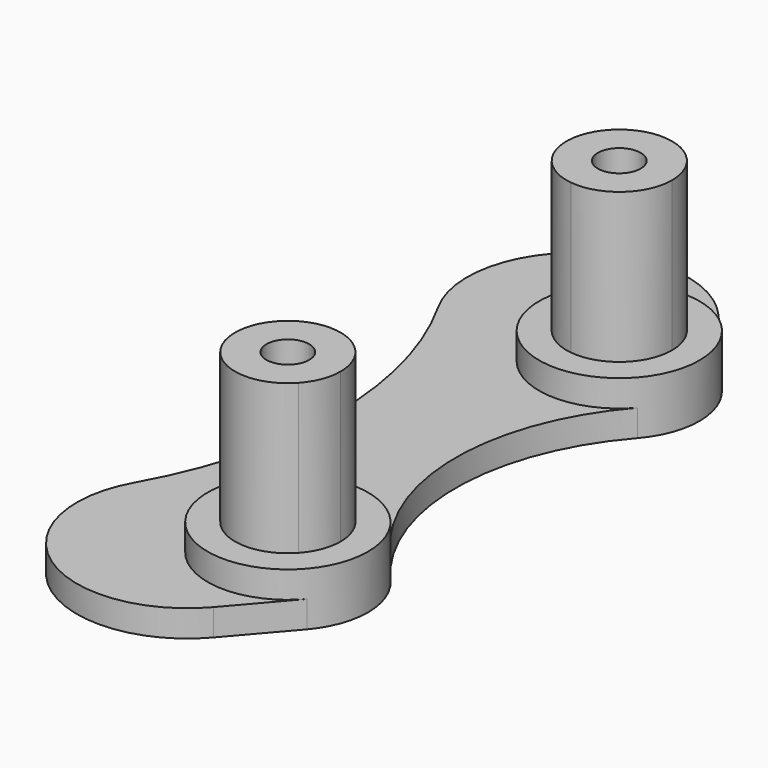
from build123d import *

# Parameters (mm, degrees)
F0_R     = 1.6
F1_DEPTH = 2
F2_DEPTH = 4
F3_DEPTH = 15.2
F4_DEPTH = 15.2
F5_DEPTH = 3


with BuildPart() as f1:
    # F0 (on Top) → F1 (new body)
    with BuildSketch(Plane.XY):
        with BuildLine():
            ThreePointArc((4.509835336, 11.5425531915), (0.9550503073, 9.5764977496), (-3.0375157377, 10.325688631))
            ThreePointArc((-3.0375157377, 10.325688631), (-8.4572600243, 10.6145881745), (-12.5247035281, 14.2080536913))
            ThreePointArc((-12.5247035281, 14.2080536913), (-8.8057480142, 0), (-12.5247035281, -14.2080536913))
            ThreePointArc((-12.5247035281, -14.2080536913), (-8.4572600243, -10.6145881745), (-3.0375157377, -10.325688631))
            ThreePointArc((-3.0375157377, -10.325688631), (0.9550503073, -9.5764977496), (4.509835336, -11.5425531915))
            ThreePointArc((4.509835336, -11.5425531915), (0.1635217327, 0), (4.509835336, 11.5425531915))
        make_face()
        with BuildLine():
            ThreePointArc((-3.0375157377, -10.325688631), (-8.4572600243, -10.6145881745), (-12.5247035281, -14.2080536913))
            ThreePointArc((-12.5247035281, -14.2080536913), (-10.0665892972, -25.0066725603), (0.9222946004, -23.6293832897))
            ThreePointArc((0.9222946004, -23.6293832897), (1.8126059127, -22.3739977019), (2.4542536164, -20.975092619))
            ThreePointArc((2.4542536164, -20.975092619), (-5.3326822519, -18.25), (-3.0375157377, -10.325688631))
        make_face()
        with BuildLine():
            ThreePointArc((6, -15.5), (5.615114069, -13.3856457269), (4.509835336, -11.5425531915))
            ThreePointArc((4.509835336, -11.5425531915), (0.9550503073, -9.5764977496), (-3.0375157377, -10.325688631))
            ThreePointArc((-3.0375157377, -10.325688631), (-1.7035573479, -10.8410896597), (-0.4786437682, -11.5791072263))
            ThreePointArc((-0.4786437682, -11.5791072263), (2.6183828134, -12.5425396973), (3.95, -15.5))
            ThreePointArc((3.95, -15.5), (3.6826698984, -16.928440555), (2.9168645978, -18.1635316626))
            ThreePointArc((2.9168645978, -18.1635316626), (2.9172044597, -18.2067652376), (2.9173177481, -18.25))
            ThreePointArc((2.9173177481, -18.25), (2.8007278851, -19.6320779801), (2.4542536164, -20.975092619))
            ThreePointArc((2.4542536164, -20.975092619), (3.5877913093, -20.3091323044), (4.5490740744, -19.4122787561))
            ThreePointArc((4.5490740744, -19.4122787561), (5.6255863893, -17.5863311762), (6, -15.5))
        make_face()
        with BuildLine():
            ThreePointArc((-0.4786437682, 11.5791072263), (-3.5106824825, 17.3104166667), (2.9168645978, 18.1635316626))
            ThreePointArc((2.9168645978, 18.1635316626), (2.9172044597, 18.2067652376), (2.9173177481, 18.25))
            ThreePointArc((2.9173177481, 18.25), (2.8007278851, 19.6320779801), (2.4542536164, 20.975092619))
            ThreePointArc((2.4542536164, 20.975092619), (-5.3326822519, 18.25), (-3.0375157377, 10.325688631))
            ThreePointArc((-3.0375157377, 10.325688631), (-1.7035573479, 10.8410896597), (-0.4786437682, 11.5791072263))
        make_face()
        with BuildLine():
            ThreePointArc((-0.4786437682, -11.5791072263), (-1.7035573479, -10.8410896597), (-3.0375157377, -10.325688631))
            ThreePointArc((-3.0375157377, -10.325688631), (-5.3326822519, -18.25), (2.4542536164, -20.975092619))
            ThreePointArc((2.4542536164, -20.975092619), (2.8007278851, -19.6320779801), (2.9173177481, -18.25))
            ThreePointArc((2.9173177481, -18.25), (2.9172044597, -18.2067652376), (2.9168645978, -18.1635316626))
            ThreePointArc((2.9168645978, -18.1635316626), (-3.5106824825, -17.3104166667), (-0.4786437682, -11.5791072263))
        make_face()
        with BuildLine():
            ThreePointArc((-12.5247035281, 14.2080536913), (-8.4572600243, 10.6145881745), (-3.0375157377, 10.325688631))
            ThreePointArc((-3.0375157377, 10.325688631), (-5.3326822519, 18.25), (2.4542536164, 20.975092619))
            ThreePointArc((2.4542536164, 20.975092619), (1.8126059127, 22.3739977019), (0.9222946004, 23.6293832897))
            ThreePointArc((0.9222946004, 23.6293832897), (-10.0665892972, 25.0066725603), (-12.5247035281, 14.2080536913))
        make_face()
        with BuildLine():
            ThreePointArc((2.9168645978, 18.1635316626), (3.6826698984, 16.928440555), (3.95, 15.5))
            ThreePointArc((3.95, 15.5), (2.6183828134, 12.5425396973), (-0.4786437682, 11.5791072263))
            ThreePointArc((-0.4786437682, 11.5791072263), (-1.7035573479, 10.8410896597), (-3.0375157377, 10.325688631))
            ThreePointArc((-3.0375157377, 10.325688631), (0.9550503073, 9.5764977496), (4.509835336, 11.5425531915))
            ThreePointArc((4.509835336, 11.5425531915), (5.615114069, 13.3856457269), (6, 15.5))
            ThreePointArc((6, 15.5), (5.6255863893, 17.5863311762), (4.5490740744, 19.4122787561))
            ThreePointArc((4.5490740744, 19.4122787561), (3.5877913093, 20.3091323044), (2.4542536164, 20.975092619))
            ThreePointArc((2.4542536164, 20.975092619), (2.8007278851, 19.6320779801), (2.9173177481, 18.25))
            ThreePointArc((2.9173177481, 18.25), (2.9172044597, 18.2067652376), (2.9168645978, 18.1635316626))
        make_face()
        with BuildLine():
            ThreePointArc((0.6523256734, 12.5717801968), (1.9997558445, 14.46875), (2.7639238942, 16.6665010532))
            ThreePointArc((2.7639238942, 16.6665010532), (-2.666341126, 16.875), (0.6523256734, 12.5717801968))
        make_face()
        with Locations((0, 15.5)):
            Circle(F0_R, mode=Mode.SUBTRACT)
        with BuildLine():
            ThreePointArc((2.7639238942, -16.6665010532), (1.9997558445, -14.46875), (0.6523256734, -12.5717801968))
            ThreePointArc((0.6523256734, -12.5717801968), (-2.666341126, -16.875), (2.7639238942, -16.6665010532))
        make_face()
        with Locations((0, -15.5)):
            Circle(F0_R, mode=Mode.SUBTRACT)
        with Locations((0, -15.5)):
            Circle(F0_R)
        with Locations((0, 15.5)):
            Circle(F0_R)
        with BuildLine():
            ThreePointArc((3.95, -15.5), (2.6183828134, -12.5425396973), (-0.4786437682, -11.5791072263))
            ThreePointArc((-0.4786437682, -11.5791072263), (0.1095214994, -12.0496033733), (0.6523256734, -12.5717801968))
            ThreePointArc((0.6523256734, -12.5717801968), (2.3406171217, -13.6234309259), (3, -15.5))
            ThreePointArc((3, -15.5), (2.9403887228, -16.0950749186), (2.7639238942, -16.6665010532))
            ThreePointArc((2.7639238942, -16.6665010532), (2.8745983332, -17.4115219757), (2.9168645978, -18.1635316626))
            ThreePointArc((2.9168645978, -18.1635316626), (3.6826698984, -16.928440555), (3.95, -15.5))
        make_face()
        with BuildLine():
            ThreePointArc((2.7639238942, 16.6665010532), (2.8745983332, 17.4115219757), (2.9168645978, 18.1635316626))
            ThreePointArc((2.9168645978, 18.1635316626), (-3.5106824825, 17.3104166667), (-0.4786437682, 11.5791072263))
            ThreePointArc((-0.4786437682, 11.5791072263), (0.1095214994, 12.0496033733), (0.6523256734, 12.5717801968))
            ThreePointArc((0.6523256734, 12.5717801968), (-2.666341126, 16.875), (2.7639238942, 16.6665010532))
        make_face()
        with BuildLine():
            ThreePointArc((0.9222946004, 23.6293832897), (1.8126059127, 22.3739977019), (2.4542536164, 20.975092619))
            ThreePointArc((2.4542536164, 20.975092619), (3.5877913093, 20.3091323044), (4.5490740744, 19.4122787561))
            Line((4.5490740744, 19.4122787561), (0.9222946004, 23.6293832897))
        make_face()
        with BuildLine():
            ThreePointArc((2.4542536164, -20.975092619), (1.8126059127, -22.3739977019), (0.9222946004, -23.6293832897))
            Line((0.9222946004, -23.6293832897), (4.5490740744, -19.4122787561))
            ThreePointArc((4.5490740744, -19.4122787561), (3.5877913093, -20.3091323044), (2.4542536164, -20.975092619))
        make_face()
        with BuildLine():
            ThreePointArc((-0.4786437682, 11.5791072263), (2.6183828134, 12.5425396973), (3.95, 15.5))
            ThreePointArc((3.95, 15.5), (3.6826698984, 16.928440555), (2.9168645978, 18.1635316626))
            ThreePointArc((2.9168645978, 18.1635316626), (2.8745983332, 17.4115219757), (2.7639238942, 16.6665010532))
            ThreePointArc((2.7639238942, 16.6665010532), (2.9403887228, 16.0950749186), (3, 15.5))
            ThreePointArc((3, 15.5), (2.3406171217, 13.6234309259), (0.6523256734, 12.5717801968))
            ThreePointArc((0.6523256734, 12.5717801968), (0.1095214994, 12.0496033733), (-0.4786437682, 11.5791072263))
        make_face()
        with BuildLine():
            ThreePointArc((3, 15.5), (2.9403887228, 16.0950749186), (2.7639238942, 16.6665010532))
            ThreePointArc((2.7639238942, 16.6665010532), (1.9997558445, 14.46875), (0.6523256734, 12.5717801968))
            ThreePointArc((0.6523256734, 12.5717801968), (2.3406171217, 13.6234309259), (3, 15.5))
        make_face()
        with BuildLine():
            ThreePointArc((0.6523256734, -12.5717801968), (0.1095214994, -12.0496033733), (-0.4786437682, -11.5791072263))
            ThreePointArc((-0.4786437682, -11.5791072263), (-3.5106824825, -17.3104166667), (2.9168645978, -18.1635316626))
            ThreePointArc((2.9168645978, -18.1635316626), (2.8745983332, -17.4115219757), (2.7639238942, -16.6665010532))
            ThreePointArc((2.7639238942, -16.6665010532), (-2.666341126, -16.875), (0.6523256734, -12.5717801968))
        make_face()
        with BuildLine():
            ThreePointArc((3, -15.5), (2.3406171217, -13.6234309259), (0.6523256734, -12.5717801968))
            ThreePointArc((0.6523256734, -12.5717801968), (1.9997558445, -14.46875), (2.7639238942, -16.6665010532))
            ThreePointArc((2.7639238942, -16.6665010532), (2.9403887228, -16.0950749186), (3, -15.5))
        make_face()
    extrude(amount=F1_DEPTH)

    # F0 (on Top) → F2 (join)
    with BuildSketch(Plane.XY):
        with BuildLine():
            ThreePointArc((-0.4786437682, -11.5791072263), (-1.7035573479, -10.8410896597), (-3.0375157377, -10.325688631))
            ThreePointArc((-3.0375157377, -10.325688631), (-5.3326822519, -18.25), (2.4542536164, -20.975092619))
            ThreePointArc((2.4542536164, -20.975092619), (2.8007278851, -19.6320779801), (2.9173177481, -18.25))
            ThreePointArc((2.9173177481, -18.25), (2.9172044597, -18.2067652376), (2.9168645978, -18.1635316626))
            ThreePointArc((2.9168645978, -18.1635316626), (-3.5106824825, -17.3104166667), (-0.4786437682, -11.5791072263))
        make_face()
        with BuildLine():
            ThreePointArc((6, -15.5), (5.615114069, -13.3856457269), (4.509835336, -11.5425531915))
            ThreePointArc((4.509835336, -11.5425531915), (0.9550503073, -9.5764977496), (-3.0375157377, -10.325688631))
            ThreePointArc((-3.0375157377, -10.325688631), (-1.7035573479, -10.8410896597), (-0.4786437682, -11.5791072263))
            ThreePointArc((-0.4786437682, -11.5791072263), (2.6183828134, -12.5425396973), (3.95, -15.5))
            ThreePointArc((3.95, -15.5), (3.6826698984, -16.928440555), (2.9168645978, -18.1635316626))
            ThreePointArc((2.9168645978, -18.1635316626), (2.9172044597, -18.2067652376), (2.9173177481, -18.25))
            ThreePointArc((2.9173177481, -18.25), (2.8007278851, -19.6320779801), (2.4542536164, -20.975092619))
            ThreePointArc((2.4542536164, -20.975092619), (3.5877913093, -20.3091323044), (4.5490740744, -19.4122787561))
            ThreePointArc((4.5490740744, -19.4122787561), (5.6255863893, -17.5863311762), (6, -15.5))
        make_face()
        with BuildLine():
            ThreePointArc((-0.4786437682, 11.5791072263), (-3.5106824825, 17.3104166667), (2.9168645978, 18.1635316626))
            ThreePointArc((2.9168645978, 18.1635316626), (2.9172044597, 18.2067652376), (2.9173177481, 18.25))
            ThreePointArc((2.9173177481, 18.25), (2.8007278851, 19.6320779801), (2.4542536164, 20.975092619))
            ThreePointArc((2.4542536164, 20.975092619), (-5.3326822519, 18.25), (-3.0375157377, 10.325688631))
            ThreePointArc((-3.0375157377, 10.325688631), (-1.7035573479, 10.8410896597), (-0.4786437682, 11.5791072263))
        make_face()
        with BuildLine():
            ThreePointArc((2.9168645978, 18.1635316626), (3.6826698984, 16.928440555), (3.95, 15.5))
            ThreePointArc((3.95, 15.5), (2.6183828134, 12.5425396973), (-0.4786437682, 11.5791072263))
            ThreePointArc((-0.4786437682, 11.5791072263), (-1.7035573479, 10.8410896597), (-3.0375157377, 10.325688631))
            ThreePointArc((-3.0375157377, 10.325688631), (0.9550503073, 9.5764977496), (4.509835336, 11.5425531915))
            ThreePointArc((4.509835336, 11.5425531915), (5.615114069, 13.3856457269), (6, 15.5))
            ThreePointArc((6, 15.5), (5.6255863893, 17.5863311762), (4.5490740744, 19.4122787561))
            ThreePointArc((4.5490740744, 19.4122787561), (3.5877913093, 20.3091323044), (2.4542536164, 20.975092619))
            ThreePointArc((2.4542536164, 20.975092619), (2.8007278851, 19.6320779801), (2.9173177481, 18.25))
            ThreePointArc((2.9173177481, 18.25), (2.9172044597, 18.2067652376), (2.9168645978, 18.1635316626))
        make_face()
        with BuildLine():
            ThreePointArc((0.6523256734, 12.5717801968), (1.9997558445, 14.46875), (2.7639238942, 16.6665010532))
            ThreePointArc((2.7639238942, 16.6665010532), (-2.666341126, 16.875), (0.6523256734, 12.5717801968))
        make_face()
        with Locations((0, 15.5)):
            Circle(F0_R, mode=Mode.SUBTRACT)
        with BuildLine():
            ThreePointArc((2.7639238942, -16.6665010532), (1.9997558445, -14.46875), (0.6523256734, -12.5717801968))
            ThreePointArc((0.6523256734, -12.5717801968), (-2.666341126, -16.875), (2.7639238942, -16.6665010532))
        make_face()
        with Locations((0, -15.5)):
            Circle(F0_R, mode=Mode.SUBTRACT)
        with Locations((0, -15.5)):
            Circle(F0_R)
        with Locations((0, 15.5)):
            Circle(F0_R)
        with BuildLine():
            ThreePointArc((2.7639238942, 16.6665010532), (2.8745983332, 17.4115219757), (2.9168645978, 18.1635316626))
            ThreePointArc((2.9168645978, 18.1635316626), (-3.5106824825, 17.3104166667), (-0.4786437682, 11.5791072263))
            ThreePointArc((-0.4786437682, 11.5791072263), (0.1095214994, 12.0496033733), (0.6523256734, 12.5717801968))
            ThreePointArc((0.6523256734, 12.5717801968), (-2.666341126, 16.875), (2.7639238942, 16.6665010532))
        make_face()
        with BuildLine():
            ThreePointArc((3.95, -15.5), (2.6183828134, -12.5425396973), (-0.4786437682, -11.5791072263))
            ThreePointArc((-0.4786437682, -11.5791072263), (0.1095214994, -12.0496033733), (0.6523256734, -12.5717801968))
            ThreePointArc((0.6523256734, -12.5717801968), (2.3406171217, -13.6234309259), (3, -15.5))
            ThreePointArc((3, -15.5), (2.9403887228, -16.0950749186), (2.7639238942, -16.6665010532))
            ThreePointArc((2.7639238942, -16.6665010532), (2.8745983332, -17.4115219757), (2.9168645978, -18.1635316626))
            ThreePointArc((2.9168645978, -18.1635316626), (3.6826698984, -16.928440555), (3.95, -15.5))
        make_face()
        with BuildLine():
            ThreePointArc((-0.4786437682, 11.5791072263), (2.6183828134, 12.5425396973), (3.95, 15.5))
            ThreePointArc((3.95, 15.5), (3.6826698984, 16.928440555), (2.9168645978, 18.1635316626))
            ThreePointArc((2.9168645978, 18.1635316626), (2.8745983332, 17.4115219757), (2.7639238942, 16.6665010532))
            ThreePointArc((2.7639238942, 16.6665010532), (2.9403887228, 16.0950749186), (3, 15.5))
            ThreePointArc((3, 15.5), (2.3406171217, 13.6234309259), (0.6523256734, 12.5717801968))
            ThreePointArc((0.6523256734, 12.5717801968), (0.1095214994, 12.0496033733), (-0.4786437682, 11.5791072263))
        make_face()
        with BuildLine():
            ThreePointArc((3, 15.5), (2.9403887228, 16.0950749186), (2.7639238942, 16.6665010532))
            ThreePointArc((2.7639238942, 16.6665010532), (1.9997558445, 14.46875), (0.6523256734, 12.5717801968))
            ThreePointArc((0.6523256734, 12.5717801968), (2.3406171217, 13.6234309259), (3, 15.5))
        make_face()
        with BuildLine():
            ThreePointArc((3, -15.5), (2.3406171217, -13.6234309259), (0.6523256734, -12.5717801968))
            ThreePointArc((0.6523256734, -12.5717801968), (1.9997558445, -14.46875), (2.7639238942, -16.6665010532))
            ThreePointArc((2.7639238942, -16.6665010532), (2.9403887228, -16.0950749186), (3, -15.5))
        make_face()
        with BuildLine():
            ThreePointArc((0.6523256734, -12.5717801968), (0.1095214994, -12.0496033733), (-0.4786437682, -11.5791072263))
            ThreePointArc((-0.4786437682, -11.5791072263), (-3.5106824825, -17.3104166667), (2.9168645978, -18.1635316626))
            ThreePointArc((2.9168645978, -18.1635316626), (2.8745983332, -17.4115219757), (2.7639238942, -16.6665010532))
            ThreePointArc((2.7639238942, -16.6665010532), (-2.666341126, -16.875), (0.6523256734, -12.5717801968))
        make_face()
    extrude(amount=F2_DEPTH)

    # F0 (on Top) → F3 (join)
    with BuildSketch(Plane.XY):
        with BuildLine():
            ThreePointArc((3.95, -15.5), (2.6183828134, -12.5425396973), (-0.4786437682, -11.5791072263))
            ThreePointArc((-0.4786437682, -11.5791072263), (0.1095214994, -12.0496033733), (0.6523256734, -12.5717801968))
            ThreePointArc((0.6523256734, -12.5717801968), (2.3406171217, -13.6234309259), (3, -15.5))
            ThreePointArc((3, -15.5), (2.9403887228, -16.0950749186), (2.7639238942, -16.6665010532))
            ThreePointArc((2.7639238942, -16.6665010532), (2.8745983332, -17.4115219757), (2.9168645978, -18.1635316626))
            ThreePointArc((2.9168645978, -18.1635316626), (3.6826698984, -16.928440555), (3.95, -15.5))
        make_face()
        with BuildLine():
            ThreePointArc((2.7639238942, -16.6665010532), (1.9997558445, -14.46875), (0.6523256734, -12.5717801968))
            ThreePointArc((0.6523256734, -12.5717801968), (-2.666341126, -16.875), (2.7639238942, -16.6665010532))
        make_face()
        with Locations((0, -15.5)):
            Circle(F0_R, mode=Mode.SUBTRACT)
        with Locations((0, -15.5)):
            Circle(F0_R)
        with BuildLine():
            ThreePointArc((0.6523256734, 12.5717801968), (1.9997558445, 14.46875), (2.7639238942, 16.6665010532))
            ThreePointArc((2.7639238942, 16.6665010532), (-2.666341126, 16.875), (0.6523256734, 12.5717801968))
        make_face()
        with Locations((0, 15.5)):
            Circle(F0_R, mode=Mode.SUBTRACT)
        with Locations((0, 15.5)):
            Circle(F0_R)
        with BuildLine():
            ThreePointArc((-0.4786437682, 11.5791072263), (2.6183828134, 12.5425396973), (3.95, 15.5))
            ThreePointArc((3.95, 15.5), (3.6826698984, 16.928440555), (2.9168645978, 18.1635316626))
            ThreePointArc((2.9168645978, 18.1635316626), (2.8745983332, 17.4115219757), (2.7639238942, 16.6665010532))
            ThreePointArc((2.7639238942, 16.6665010532), (2.9403887228, 16.0950749186), (3, 15.5))
            ThreePointArc((3, 15.5), (2.3406171217, 13.6234309259), (0.6523256734, 12.5717801968))
            ThreePointArc((0.6523256734, 12.5717801968), (0.1095214994, 12.0496033733), (-0.4786437682, 11.5791072263))
        make_face()
        with BuildLine():
            ThreePointArc((2.7639238942, 16.6665010532), (2.8745983332, 17.4115219757), (2.9168645978, 18.1635316626))
            ThreePointArc((2.9168645978, 18.1635316626), (-3.5106824825, 17.3104166667), (-0.4786437682, 11.5791072263))
            ThreePointArc((-0.4786437682, 11.5791072263), (0.1095214994, 12.0496033733), (0.6523256734, 12.5717801968))
            ThreePointArc((0.6523256734, 12.5717801968), (-2.666341126, 16.875), (2.7639238942, 16.6665010532))
        make_face()
        with BuildLine():
            ThreePointArc((3, 15.5), (2.9403887228, 16.0950749186), (2.7639238942, 16.6665010532))
            ThreePointArc((2.7639238942, 16.6665010532), (1.9997558445, 14.46875), (0.6523256734, 12.5717801968))
            ThreePointArc((0.6523256734, 12.5717801968), (2.3406171217, 13.6234309259), (3, 15.5))
        make_face()
        with BuildLine():
            ThreePointArc((0.6523256734, -12.5717801968), (0.1095214994, -12.0496033733), (-0.4786437682, -11.5791072263))
            ThreePointArc((-0.4786437682, -11.5791072263), (-3.5106824825, -17.3104166667), (2.9168645978, -18.1635316626))
            ThreePointArc((2.9168645978, -18.1635316626), (2.8745983332, -17.4115219757), (2.7639238942, -16.6665010532))
            ThreePointArc((2.7639238942, -16.6665010532), (-2.666341126, -16.875), (0.6523256734, -12.5717801968))
        make_face()
        with BuildLine():
            ThreePointArc((3, -15.5), (2.3406171217, -13.6234309259), (0.6523256734, -12.5717801968))
            ThreePointArc((0.6523256734, -12.5717801968), (1.9997558445, -14.46875), (2.7639238942, -16.6665010532))
            ThreePointArc((2.7639238942, -16.6665010532), (2.9403887228, -16.0950749186), (3, -15.5))
        make_face()
    extrude(amount=F3_DEPTH)

    # F0 (on Top) → F4 (cut, through all)
    with BuildSketch(Plane.XY):
        with Locations((0, -15.5)):
            Circle(F0_R)
        with Locations((0, 15.5)):
            Circle(F0_R)
    extrude(amount=F4_DEPTH, mode=Mode.SUBTRACT)

    # F0 (on Top) → F5 (cut)
    with BuildSketch(Plane.XY):
        with BuildLine():
            ThreePointArc((0.6523256734, 12.5717801968), (1.9997558445, 14.46875), (2.7639238942, 16.6665010532))
            ThreePointArc((2.7639238942, 16.6665010532), (-2.666341126, 16.875), (0.6523256734, 12.5717801968))
        make_face()
        with Locations((0, 15.5)):
            Circle(F0_R, mode=Mode.SUBTRACT)
        with BuildLine():
            ThreePointArc((3, 15.5), (2.9403887228, 16.0950749186), (2.7639238942, 16.6665010532))
            ThreePointArc((2.7639238942, 16.6665010532), (1.9997558445, 14.46875), (0.6523256734, 12.5717801968))
            ThreePointArc((0.6523256734, 12.5717801968), (2.3406171217, 13.6234309259), (3, 15.5))
        make_face()
        with BuildLine():
            ThreePointArc((2.7639238942, -16.6665010532), (1.9997558445, -14.46875), (0.6523256734, -12.5717801968))
            ThreePointArc((0.6523256734, -12.5717801968), (-2.666341126, -16.875), (2.7639238942, -16.6665010532))
        make_face()
        with Locations((0, -15.5)):
            Circle(F0_R, mode=Mode.SUBTRACT)
        with BuildLine():
            ThreePointArc((3, -15.5), (2.3406171217, -13.6234309259), (0.6523256734, -12.5717801968))
            ThreePointArc((0.6523256734, -12.5717801968), (1.9997558445, -14.46875), (2.7639238942, -16.6665010532))
            ThreePointArc((2.7639238942, -16.6665010532), (2.9403887228, -16.0950749186), (3, -15.5))
        make_face()
        with Locations((0, -15.5)):
            Circle(F0_R)
        with Locations((0, 15.5)):
            Circle(F0_R)
    extrude(amount=F5_DEPTH, mode=Mode.SUBTRACT)


solid = f1.part
